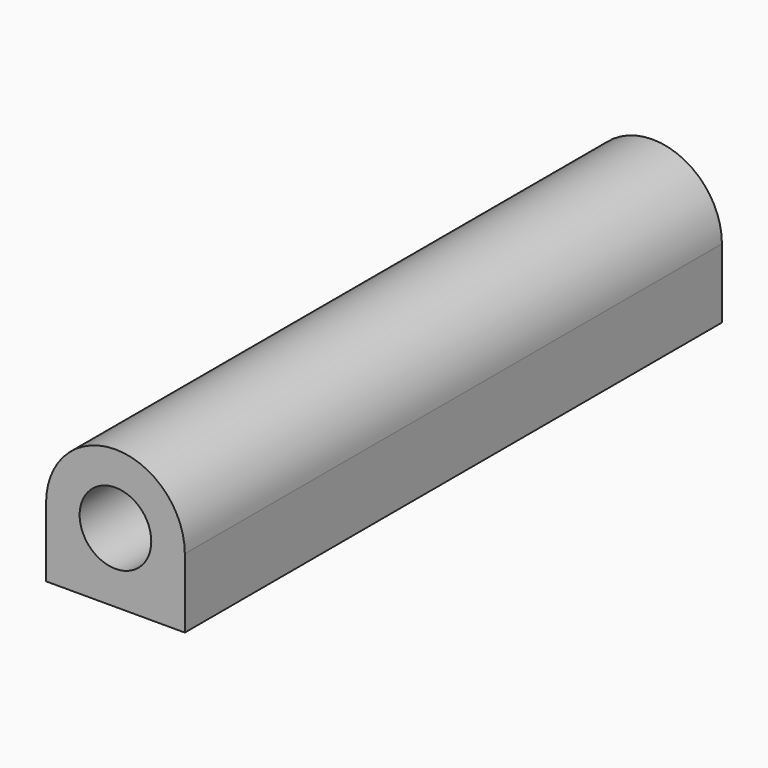
from build123d import *

# Parameters (mm, degrees)
F0_R     = 3.2
F1_DEPTH = 30
F2_W     = 6.0659722222
F2_H     = 1.6545138889
F3_DEPTH = 0.6
F4_R     = 3.2
F5_DEPTH = 2


with BuildPart() as f1:
    # F0 (on Front) → F1 (new body, symmetric)
    with BuildSketch(Plane.XZ):
        with BuildLine():
            ThreePointArc((0, -6.2), (4.3840620434, -4.3840620434), (6.2, 0))
            ThreePointArc((6.2, 0), (0, 6.2), (-6.2, 0))
            ThreePointArc((-6.2, 0), (-4.3840620434, -4.3840620434), (0, -6.2))
        make_face()
        Circle(F0_R, mode=Mode.SUBTRACT)
        with BuildLine():
            Line((6.2, -6.2), (6.2, 0))
            ThreePointArc((6.2, 0), (4.3840620434, -4.3840620434), (0, -6.2))
            Line((0, -6.2), (6.2, -6.2))
        make_face()
        with BuildLine():
            ThreePointArc((0, -6.2), (-4.3840620434, -4.3840620434), (-6.2, 0))
            Line((-6.2, 0), (-6.2, -6.2))
            Line((-6.2, -6.2), (0, -6.2))
        make_face()
    extrude(amount=F1_DEPTH, both=True)

    # F2 (on face) → F3 (cut)
    with BuildSketch(Plane(origin=(0, 0, -6.2), x_dir=(1, 0, 0), z_dir=(0, 0, -1))):
        with BuildLine():
            Line((-2.0659722222, 0.2291666667), (4, 0.2291666667))
            Line((4, 0.2291666667), (4, 1.8836805556))
            Line((4, 1.8836805556), (0.9131944444, 1.8836805556))
            add(Edge.make_bspline(
                [(-0.2265625, 2.3263888889), (0.1805555556, 1.8836805556), (0.9131944444, 1.8836805556)],
                knots=[0, 0, 0, 1, 1, 1], degree=2))
            add(Edge.make_bspline(
                [(-0.6336805556, 3.5607638889), (-0.6336805556, 2.7690972222), (-0.2265625, 2.3263888889)],
                knots=[0, 0, 0, 1, 1, 1], degree=2))
            add(Edge.make_bspline(
                [(-0.5798611111, 4.0486111111), (-0.6336805556, 3.8472222222), (-0.6336805556, 3.5607638889)],
                knots=[0, 0, 0, 1, 1, 1], degree=2))
            Line((-0.5798611111, 4.0486111111), (-2.1302083333, 4.1736111111))
            add(Edge.make_bspline(
                [(-2.1788194444, 3.6145833333), (-2.1788194444, 3.9513888889), (-2.1302083333, 4.1736111111)],
                knots=[0, 0, 0, 1, 1, 1], degree=2))
            add(Edge.make_bspline(
                [(-1.8671875, 2.5703125), (-2.1788194444, 3.0503472222), (-2.1788194444, 3.6145833333)],
                knots=[0, 0, 0, 1, 1, 1], degree=2))
            add(Edge.make_bspline(
                [(-1.0451388889, 1.8072916667), (-1.5555555556, 2.0902777778), (-1.8671875, 2.5703125)],
                knots=[0, 0, 0, 1, 1, 1], degree=2))
            Line((-1.0451388889, 1.8072916667), (-1.0451388889, 1.7274305556))
            Line((-1.0451388889, 1.7274305556), (-2.0659722222, 1.4826388889))
            Line((-2.0659722222, 1.4826388889), (-2.0659722222, 0.2291666667))
        make_face()
        with BuildLine():
            add(Edge.make_bspline(
                [(-3.6336805556, 5.203125), (-4.4427083333, 5.203125), (-4.4427083333, 6.1041666667)],
                knots=[0, 0, 0, 1, 1, 1], degree=2))
            add(Edge.make_bspline(
                [(-2.8194444444, 6.1041666667), (-2.8194444444, 5.203125), (-3.6336805556, 5.203125)],
                knots=[0, 0, 0, 1, 1, 1], degree=2))
            add(Edge.make_bspline(
                [(-3.0338541667, 6.7803819444), (-2.8194444444, 6.5555555556), (-2.8194444444, 6.1041666667)],
                knots=[0, 0, 0, 1, 1, 1], degree=2))
            add(Edge.make_bspline(
                [(-3.6336805556, 7.0052083333), (-3.2482638889, 7.0052083333), (-3.0338541667, 6.7803819444)],
                knots=[0, 0, 0, 1, 1, 1], degree=2))
            add(Edge.make_bspline(
                [(-4.4427083333, 6.1041666667), (-4.4427083333, 7.0052083333), (-3.6336805556, 7.0052083333)],
                knots=[0, 0, 0, 1, 1, 1], degree=2))
        make_face()
        with Locations((0.9670138889, 6.1015625)):
            Rectangle(F2_W, F2_H)
        Polygon((3.0225694444, 12.9184027778), (4, 12.9184027778), (4, 17.7083333333), (2.7361111111, 17.7083333333), (2.7361111111, 14.8767361111), (-0.9913194444, 17.6111111111), (-2.0659722222, 17.6111111111), (-2.0659722222, 13.0868055556), (-0.8020833333, 13.0868055556), (-0.8020833333, 15.7291666667), align=None)
        with BuildLine():
            Line((4, -3.1671269476), (4, -4.9702647151))
            add(Edge.make_bspline(
                [(4.109375, -4.0954861111), (4.109375, -4.562265294), (4, -4.9702647151)],
                knots=[0, 0, 0, 0.5345224838, 0.5345224838, 0.5345224838], degree=2))
            add(Edge.make_bspline(
                [(4, -3.1671269476), (4.109375, -3.5912137204), (4.109375, -4.0954861111)],
                knots=[0.6382803275, 0.6382803275, 0.6382803275, 1, 1, 1], degree=2))
        make_face()
        with BuildLine():
            add(Edge.make_bspline(
                [(4, 9.9340446327), (3.8749132105, 9.5386199411), (3.6067708333, 9.296875)],
                knots=[0.4664939231, 0.4664939231, 0.4664939231, 1, 1, 1], degree=2))
            Line((4, 9.9340446327), (4, 11.7624280914))
            add(Edge.make_bspline(
                [(3.8315972222, 12.2621527778), (3.9350708278, 12.0319240054), (4, 11.7624280914)],
                knots=[0, 0, 0, 0.3725049801, 0.3725049801, 0.3725049801], degree=2))
            Line((3.8315972222, 12.2621527778), (2.6006944444, 12.2621527778))
            add(Edge.make_bspline(
                [(2.7899305556, 11.2204861111), (2.7899305556, 11.6545138889), (2.6006944444, 12.2621527778)],
                knots=[0, 0, 0, 1, 1, 1], degree=2))
            add(Edge.make_bspline(
                [(2.6215277778, 10.6961805556), (2.7899305556, 10.8940972222), (2.7899305556, 11.2204861111)],
                knots=[0, 0, 0, 1, 1, 1], degree=2))
            add(Edge.make_bspline(
                [(2.1006944444, 10.4982638889), (2.453125, 10.4982638889), (2.6215277778, 10.6961805556)],
                knots=[0, 0, 0, 1, 1, 1], degree=2))
            Line((2.1006944444, 10.4982638889), (-0.8229166667, 10.4982638889))
            Line((-0.8229166667, 10.4982638889), (-0.8229166667, 12.1961805556))
            Line((-0.8229166667, 12.1961805556), (-2.0659722222, 12.1961805556))
            Line((-2.0659722222, 12.1961805556), (-2.0659722222, 10.4982638889))
            Line((-2.0659722222, 10.4982638889), (-3.3576388889, 10.4982638889))
            Line((-3.3576388889, 10.4982638889), (-3.3576388889, 9.4409722222))
            Line((-3.3576388889, 9.4409722222), (-2.0763888889, 8.9635416667))
            Line((-2.0763888889, 8.9635416667), (-1.5225694444, 8.0520833333))
            Line((-1.5225694444, 8.0520833333), (-0.8229166667, 8.0520833333))
            Line((-0.8229166667, 8.0520833333), (-0.8229166667, 8.84375))
            Line((-0.8229166667, 8.84375), (2.1006944444, 8.84375))
            add(Edge.make_bspline(
                [(3.6067708333, 9.296875), (3.1041666667, 8.84375), (2.1006944444, 8.84375)],
                knots=[0, 0, 0, 1, 1, 1], degree=2))
        make_face()
        with BuildLine():
            Line((4, 11.7624280914), (4, 9.9340446327))
            add(Edge.make_bspline(
                [(4.109375, 10.7430555556), (4.109375, 10.2798011736), (4, 9.9340446327)],
                knots=[0, 0, 0, 0.4664939231, 0.4664939231, 0.4664939231], degree=2))
            add(Edge.make_bspline(
                [(4, 11.7624280914), (4.109375, 11.3084547141), (4.109375, 10.7430555556)],
                knots=[0.3725049801, 0.3725049801, 0.3725049801, 1, 1, 1], degree=2))
        make_face()
        with BuildLine():
            Line((-2.0659722222, -17.5607638889), (4, -17.5607638889))
            Line((4, -17.5607638889), (4, -15.90625))
            Line((4, -15.90625), (1.1458333333, -15.90625))
            add(Edge.make_bspline(
                [(-0.3888888889, -15.6189236111), (0.078125, -15.90625), (1.1458333333, -15.90625)],
                knots=[0, 0, 0, 1, 1, 1], degree=2))
            add(Edge.make_bspline(
                [(-0.8559027778, -14.6961805556), (-0.8559027778, -15.3315972222), (-0.3888888889, -15.6189236111)],
                knots=[0, 0, 0, 1, 1, 1], degree=2))
            add(Edge.make_bspline(
                [(-0.5277777778, -14.0043402778), (-0.8559027778, -14.2239583333), (-0.8559027778, -14.6961805556)],
                knots=[0, 0, 0, 1, 1, 1], degree=2))
            add(Edge.make_bspline(
                [(0.4565972222, -13.7847222222), (-0.1996527778, -13.7847222222), (-0.5277777778, -14.0043402778)],
                knots=[0, 0, 0, 1, 1, 1], degree=2))
            Line((0.4565972222, -13.7847222222), (4, -13.7847222222))
            Line((4, -13.7847222222), (4, -12.1302083333))
            Line((4, -12.1302083333), (0.9565972222, -12.1302083333))
            add(Edge.make_bspline(
                [(-0.421875, -11.8289930556), (0.0121527778, -12.1302083333), (0.9565972222, -12.1302083333)],
                knots=[0, 0, 0, 1, 1, 1], degree=2))
            add(Edge.make_bspline(
                [(-0.8559027778, -10.9201388889), (-0.8559027778, -11.5277777778), (-0.421875, -11.8289930556)],
                knots=[0, 0, 0, 1, 1, 1], degree=2))
            add(Edge.make_bspline(
                [(-0.5277777778, -10.2282986111), (-0.8559027778, -10.4479166667), (-0.8559027778, -10.9201388889)],
                knots=[0, 0, 0, 1, 1, 1], degree=2))
            add(Edge.make_bspline(
                [(0.4565972222, -10.0086805556), (-0.1996527778, -10.0086805556), (-0.5277777778, -10.2282986111)],
                knots=[0, 0, 0, 1, 1, 1], degree=2))
            Line((0.4565972222, -10.0086805556), (4, -10.0086805556))
            Line((4, -10.0086805556), (4, -8.3489583333))
            Line((4, -8.3489583333), (0.0451388889, -8.3489583333))
            add(Edge.make_bspline(
                [(-1.6501736111, -8.8776041667), (-1.1215277778, -8.3489583333), (0.0451388889, -8.3489583333)],
                knots=[0, 0, 0, 1, 1, 1], degree=2))
            add(Edge.make_bspline(
                [(-2.1788194444, -10.4375), (-2.1788194444, -9.40625), (-1.6501736111, -8.8776041667)],
                knots=[0, 0, 0, 1, 1, 1], degree=2))
            add(Edge.make_bspline(
                [(-1.9461805556, -11.5086805556), (-2.1788194444, -11.0347222222), (-2.1788194444, -10.4375)],
                knots=[0, 0, 0, 1, 1, 1], degree=2))
            add(Edge.make_bspline(
                [(-1.2899305556, -12.2274305556), (-1.7135416667, -11.9826388889), (-1.9461805556, -11.5086805556)],
                knots=[0, 0, 0, 1, 1, 1], degree=2))
            Line((-1.2899305556, -12.2274305556), (-1.2899305556, -12.3732638889))
            add(Edge.make_bspline(
                [(-2.1788194444, -14.21875), (-2.1788194444, -12.8576388889), (-1.2899305556, -12.3732638889)],
                knots=[0, 0, 0, 1, 1, 1], degree=2))
            add(Edge.make_bspline(
                [(-1.9435763889, -15.2769097222), (-2.1788194444, -14.8159722222), (-2.1788194444, -14.21875)],
                knots=[0, 0, 0, 1, 1, 1], degree=2))
            add(Edge.make_bspline(
                [(-1.2899305556, -15.9826388889), (-1.7083333333, -15.7378472222), (-1.9435763889, -15.2769097222)],
                knots=[0, 0, 0, 1, 1, 1], degree=2))
            Line((-1.2899305556, -15.9826388889), (-1.2899305556, -16.0746527778))
            Line((-1.2899305556, -16.0746527778), (-2.0659722222, -16.296875))
            Line((-2.0659722222, -16.296875), (-2.0659722222, -17.5607638889))
        make_face()
        with BuildLine():
            add(Edge.make_bspline(
                [(4, -4.9702647151), (3.9047531117, -5.3255623178), (3.7265625, -5.6362847222)],
                knots=[0.5345224838, 0.5345224838, 0.5345224838, 1, 1, 1], degree=2))
            Line((4, -4.9702647151), (4, -3.1671269476))
            add(Edge.make_bspline(
                [(3.2734375, -1.9201388889), (3.8069999612, -2.4187953947), (4, -3.1671269476)],
                knots=[0, 0, 0, 0.6382803275, 0.6382803275, 0.6382803275], degree=2))
            add(Edge.make_bspline(
                [(0.9565972222, -1.1388888889), (2.4375, -1.1388888889), (3.2734375, -1.9201388889)],
                knots=[0, 0, 0, 1, 1, 1], degree=2))
            add(Edge.make_bspline(
                [(-0.7092013889, -1.4965277778), (0.0017361111, -1.1388888889), (0.9565972222, -1.1388888889)],
                knots=[0, 0, 0, 1, 1, 1], degree=2))
            add(Edge.make_bspline(
                [(-1.7994791667, -2.5217013889), (-1.4201388889, -1.8541666667), (-0.7092013889, -1.4965277778)],
                knots=[0, 0, 0, 1, 1, 1], degree=2))
            add(Edge.make_bspline(
                [(-2.1788194444, -4.0625), (-2.1788194444, -3.1892361111), (-1.7994791667, -2.5217013889)],
                knots=[0, 0, 0, 1, 1, 1], degree=2))
            add(Edge.make_bspline(
                [(-1.3541666667, -6.2439236111), (-2.1788194444, -5.46875), (-2.1788194444, -4.0625)],
                knots=[0, 0, 0, 1, 1, 1], degree=2))
            add(Edge.make_bspline(
                [(0.9565972222, -7.0190972222), (-0.5295138889, -7.0190972222), (-1.3541666667, -6.2439236111)],
                knots=[0, 0, 0, 1, 1, 1], degree=2))
            add(Edge.make_bspline(
                [(2.6276041667, -6.6614583333), (1.9114583333, -7.0190972222), (0.9565972222, -7.0190972222)],
                knots=[0, 0, 0, 1, 1, 1], degree=2))
            add(Edge.make_bspline(
                [(3.7265625, -5.6362847222), (3.34375, -6.3038194444), (2.6276041667, -6.6614583333)],
                knots=[0, 0, 0, 1, 1, 1], degree=2))
        make_face()
        with BuildLine():
            add(Edge.make_bspline(
                [(0.9565972222, -5.3333333333), (1.8576388889, -5.3333333333), (2.3185763889, -5.0373263889)],
                knots=[0, 0, 0, 1, 1, 1], degree=2))
            add(Edge.make_bspline(
                [(-0.3975694444, -5.0399305556), (0.0503472222, -5.3333333333), (0.9565972222, -5.3333333333)],
                knots=[0, 0, 0, 1, 1, 1], degree=2))
            add(Edge.make_bspline(
                [(-0.8454861111, -4.0850694444), (-0.8454861111, -4.7465277778), (-0.3975694444, -5.0399305556)],
                knots=[0, 0, 0, 1, 1, 1], degree=2))
            add(Edge.make_bspline(
                [(-0.3949652778, -3.1241319444), (-0.8454861111, -3.4166666667), (-0.8454861111, -4.0850694444)],
                knots=[0, 0, 0, 1, 1, 1], degree=2))
            add(Edge.make_bspline(
                [(0.9565972222, -2.8315972222), (0.0555555556, -2.8315972222), (-0.3949652778, -3.1241319444)],
                knots=[0, 0, 0, 1, 1, 1], degree=2))
            add(Edge.make_bspline(
                [(2.3211805556, -3.1215277778), (1.8628472222, -2.8315972222), (0.9565972222, -2.8315972222)],
                knots=[0, 0, 0, 1, 1, 1], degree=2))
            add(Edge.make_bspline(
                [(2.7795138889, -4.0746527778), (2.7795138889, -3.4114583333), (2.3211805556, -3.1215277778)],
                knots=[0, 0, 0, 1, 1, 1], degree=2))
            add(Edge.make_bspline(
                [(2.3185763889, -5.0373263889), (2.7795138889, -4.7413194444), (2.7795138889, -4.0746527778)],
                knots=[0, 0, 0, 1, 1, 1], degree=2))
        make_face(mode=Mode.SUBTRACT)
        with BuildLine():
            add(Edge.make_bspline(
                [(-0.3975694444, -5.0399305556), (0.0503472222, -5.3333333333), (0.9565972222, -5.3333333333)],
                knots=[0, 0, 0, 1, 1, 1], degree=2))
            add(Edge.make_bspline(
                [(0.9565972222, -5.3333333333), (1.8576388889, -5.3333333333), (2.3185763889, -5.0373263889)],
                knots=[0, 0, 0, 1, 1, 1], degree=2))
            add(Edge.make_bspline(
                [(2.3185763889, -5.0373263889), (2.7795138889, -4.7413194444), (2.7795138889, -4.0746527778)],
                knots=[0, 0, 0, 1, 1, 1], degree=2))
            add(Edge.make_bspline(
                [(2.7795138889, -4.0746527778), (2.7795138889, -3.4114583333), (2.3211805556, -3.1215277778)],
                knots=[0, 0, 0, 1, 1, 1], degree=2))
            add(Edge.make_bspline(
                [(2.3211805556, -3.1215277778), (1.8628472222, -2.8315972222), (0.9565972222, -2.8315972222)],
                knots=[0, 0, 0, 1, 1, 1], degree=2))
            add(Edge.make_bspline(
                [(0.9565972222, -2.8315972222), (0.0555555556, -2.8315972222), (-0.3949652778, -3.1241319444)],
                knots=[0, 0, 0, 1, 1, 1], degree=2))
            add(Edge.make_bspline(
                [(-0.3949652778, -3.1241319444), (-0.8454861111, -3.4166666667), (-0.8454861111, -4.0850694444)],
                knots=[0, 0, 0, 1, 1, 1], degree=2))
            add(Edge.make_bspline(
                [(-0.8454861111, -4.0850694444), (-0.8454861111, -4.7465277778), (-0.3975694444, -5.0399305556)],
                knots=[0, 0, 0, 1, 1, 1], degree=2))
        make_face()
    extrude(amount=-F3_DEPTH, mode=Mode.SUBTRACT)

    # F4 (on Front) → F5 (join, symmetric)
    with BuildSketch(Plane.XZ):
        Circle(F4_R)
    extrude(amount=F5_DEPTH, both=True)


solid = f1.part
